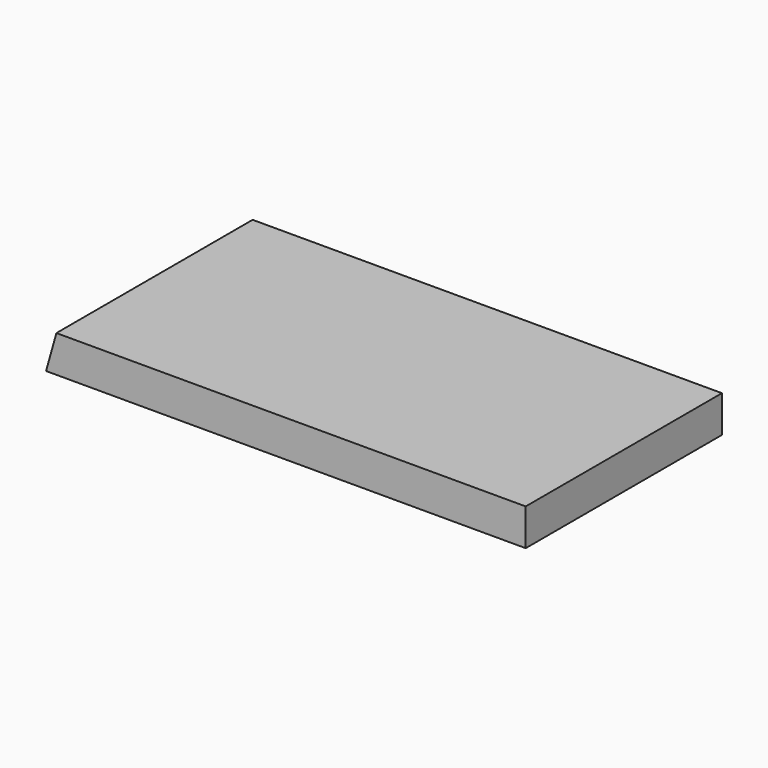
from build123d import *

# Parameters (mm, degrees)
F0_W     = 254
F0_H     = 127
F1_DEPTH = 19.05
F3_DEPTH = 127


with BuildPart() as f1:
    # F0 (on Top) → F1 (new body)
    with BuildSketch(Plane.XY):
        with Locations((10.43893, -20.985554)):
            Rectangle(F0_W, F0_H)
    extrude(amount=-F1_DEPTH)

    # F2 (on face) → F3 (cut)
    with BuildSketch(Plane.XZ.offset(84.485554)):
        Polygon((-110.905863, -19.05), (-105.562547, 0), (-116.56107, 0), (-116.56107, -19.05), align=None)
    extrude(amount=-F3_DEPTH, mode=Mode.SUBTRACT)


solid = f1.part
